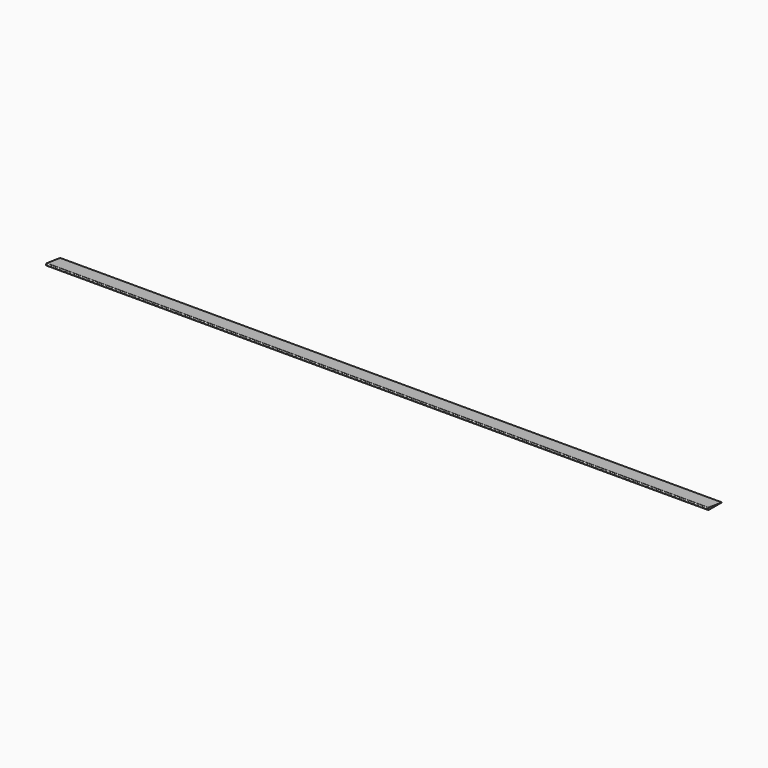
from build123d import *

# Parameters (mm, degrees)
F1_DEPTH = 6096


with BuildPart() as f1:
    # F0 (on Right) → F1 (new body)
    with BuildSketch(Plane.YZ):
        with BuildLine():
            ThreePointArc((-86.50966, 10.995239), (-83.831421, 3.274624), (-76.344252, 0))
            Line((-76.344252, 0), (75.72183, 0))
            Line((75.72183, 0), (-76.344252, 19.951835))
            ThreePointArc((-76.344252, 19.951835), (-83.242022, 17.533571), (-86.50966, 10.995239))
        make_face()
    extrude(amount=F1_DEPTH)


solid = f1.part
